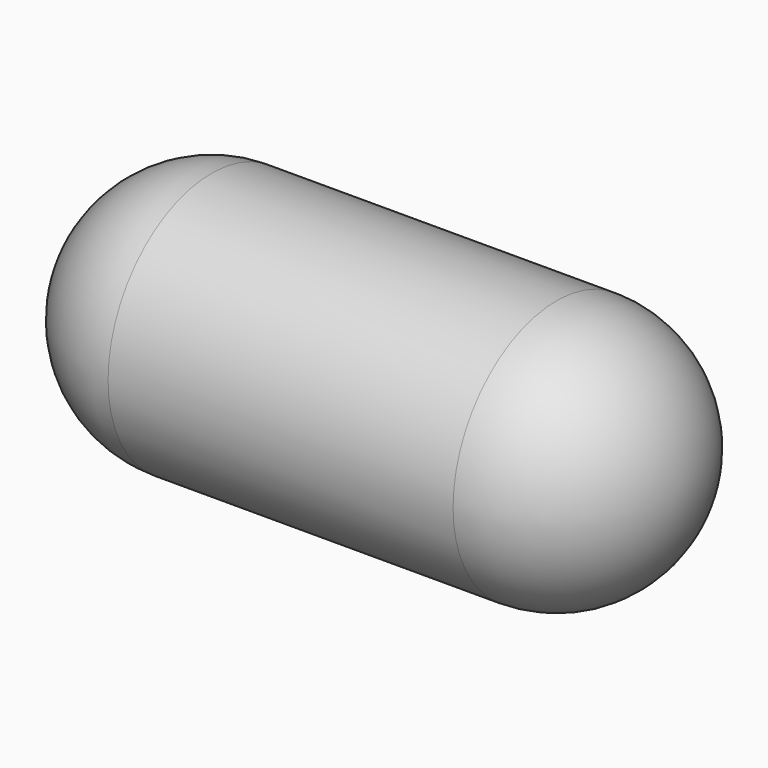
from build123d import *

# Parameters (mm, degrees)
F0_W     = 50.8
F0_H     = 38.1
F3_DEPTH = 25.4


with BuildPart() as f1:
    # F0 (on Top) → F1 (revolve)
    with BuildSketch(Plane.XY):
        with BuildLine():
            Line((88.9, -1.3230820239), (50.8, -1.3230820239))
            Line((50.8, -1.3230820239), (50.8, -39.4230820239))
            ThreePointArc((50.8, -39.4230820239), (77.7407683632, -28.2638503871), (88.9, -1.3230820239))
        make_face()
        with Locations((-25.4, -20.3730820239)):
            Rectangle(F0_W, F0_H)
        with Locations((25.4, -20.3730820239)):
            Rectangle(F0_W, F0_H)
        with BuildLine():
            Line((-50.8, -39.4230820239), (-50.8, -1.3230820239))
            Line((-50.8, -1.3230820239), (-88.9, -1.3230820239))
            ThreePointArc((-88.9, -1.3230820239), (-77.7407683632, -28.2638503871), (-50.8, -39.4230820239))
        make_face()
    revolve(axis=Axis((0, -1.3230820239, 0), (1, 0, 0)))

    # F2 (on Right) → F3 (cut, symmetric)
    with BuildSketch(Plane.YZ):
        with BuildLine():
            ThreePointArc((-1.3230820239, -38.1), (13.2571567493, -35.1998101887), (25.6176863393, -26.9407683632))
            Line((25.6176863393, -26.9407683632), (21.1275582788, -22.4506403027))
            ThreePointArc((21.1275582788, -22.4506403027), (10.8271169537, -29.3331751572), (-1.3230820239, -31.75))
            Line((-1.3230820239, -31.75), (-1.3230820239, -38.1))
        make_face()
    extrude(amount=F3_DEPTH, both=True, mode=Mode.SUBTRACT)


solid = f1.part
